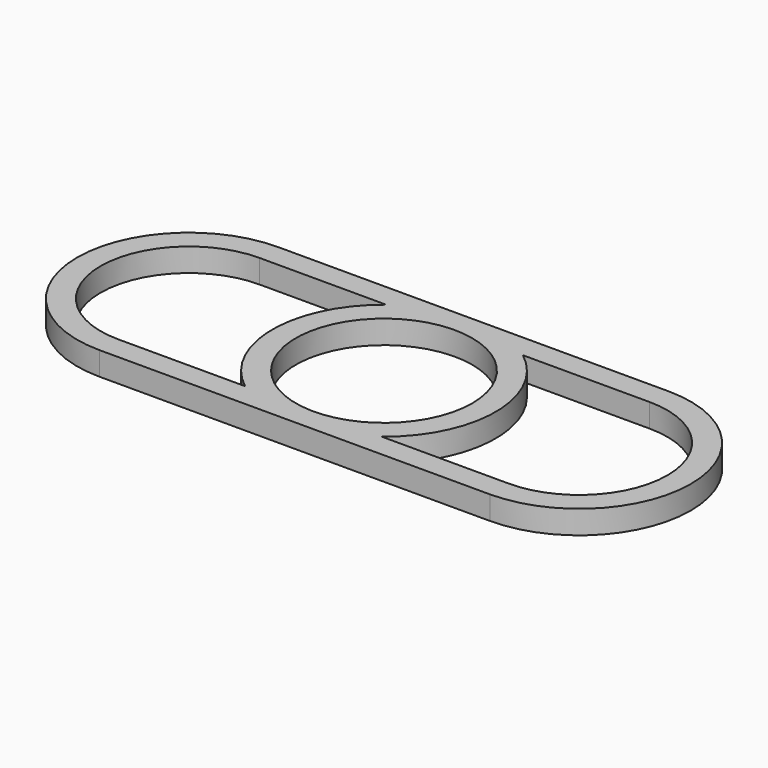
from build123d import *

# Parameters (mm, degrees)
F0_R     = 14.351
F1_DEPTH = 3.81


with BuildPart() as f1:
    # F0 (on Top) → F1 (new body)
    with BuildSketch(Plane.XY):
        with BuildLine():
            Line((31.75, 14.351), (31.75, 18.161))
            Line((31.75, 18.161), (-31.75, 18.161))
            Line((-31.75, 18.161), (-31.75, 14.351))
            Line((-31.75, 14.351), (-11.129722, 14.351))
            ThreePointArc((-11.129722, 14.351), (-18.161, 0), (-11.129722, -14.351))
            Line((-11.129722, -14.351), (-31.75, -14.351))
            Line((-31.75, -14.351), (-31.75, -18.161))
            Line((-31.75, -18.161), (31.75, -18.161))
            Line((31.75, -18.161), (31.75, -14.351))
            Line((31.75, -14.351), (11.129722, -14.351))
            ThreePointArc((11.129722, -14.351), (18.161, 0), (11.129722, 14.351))
            Line((11.129722, 14.351), (31.75, 14.351))
        make_face()
        Circle(F0_R, mode=Mode.SUBTRACT)
        with BuildLine():
            ThreePointArc((31.75, -18.161), (49.911, 0), (31.75, 18.161))
            Line((31.75, 18.161), (31.75, 14.351))
            ThreePointArc((31.75, 14.351), (46.101, 0), (31.75, -14.351))
            Line((31.75, -14.351), (31.75, -18.161))
        make_face()
        with BuildLine():
            Line((-31.75, 14.351), (-31.75, 18.161))
            ThreePointArc((-31.75, 18.161), (-49.911, 0), (-31.75, -18.161))
            Line((-31.75, -18.161), (-31.75, -14.351))
            ThreePointArc((-31.75, -14.351), (-46.101, 0), (-31.75, 14.351))
        make_face()
    extrude(amount=F1_DEPTH)


solid = f1.part
